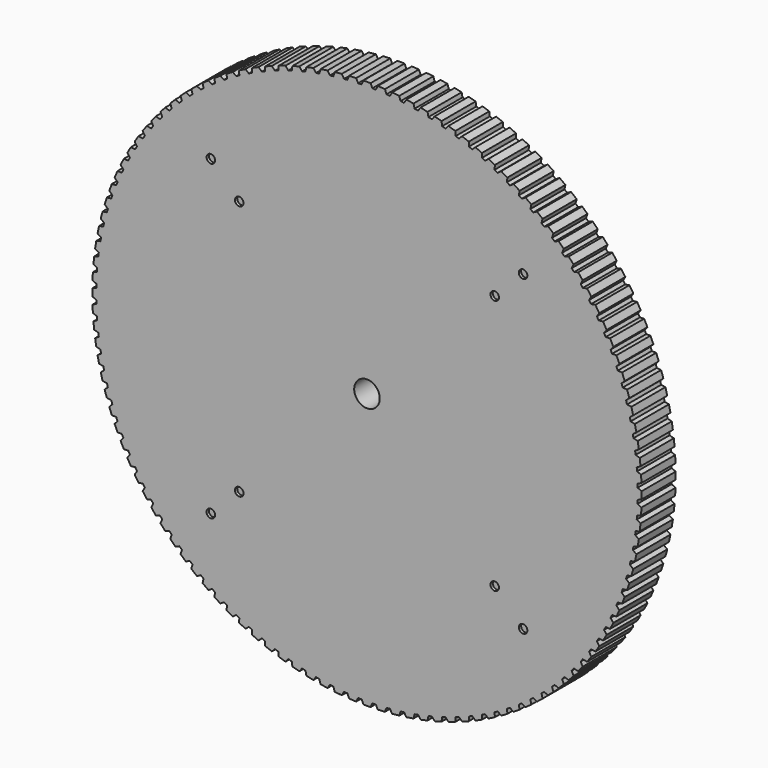
from build123d import *

# Parameters (mm, degrees)
F0_R     = 4.5
F1_DEPTH = 15
F2_R     = 1.5
F3_DEPTH = 1


with BuildPart() as f1:
    # F0 (on Front) → F1 (new body)
    with BuildSketch(Plane.XZ):
        with BuildLine():
            ThreePointArc((95.346471, -1.879804), (95.360368, -0.939948), (95.365, 0))
            ThreePointArc((95.365, 0), (95.360368, 0.939948), (95.346471, 1.879804))
            ThreePointArc((95.346471, 1.879804), (95.332321, 2.496365), (95.314183, 3.112821))
            ThreePointArc((95.314183, 3.112821), (95.234306, 4.991018), (95.117421, 6.867277))
            ThreePointArc((95.117421, 6.867277), (95.071022, 7.482252), (95.020646, 8.096914))
            ThreePointArc((95.020646, 8.096914), (94.842581, 9.968357), (94.62766, 11.835926))
            ThreePointArc((94.62766, 11.835926), (94.549139, 12.44763), (94.466664, 13.058814))
            ThreePointArc((94.466664, 13.058814), (94.190899, 14.918373), (93.878532, 16.772135))
            ThreePointArc((93.878532, 16.772135), (93.768104, 17.378891), (93.653755, 17.98492))
            ThreePointArc((93.653755, 17.98492), (93.281046, 19.827498), (92.872089, 21.662372))
            ThreePointArc((92.872089, 21.662372), (92.730057, 22.262517), (92.584148, 22.861731))
            ThreePointArc((92.584148, 22.861731), (92.115516, 24.682278), (91.61109, 26.493234))
            ThreePointArc((91.61109, 26.493234), (91.437844, 27.085123), (91.260774, 27.67588))
            ThreePointArc((91.260774, 27.67588), (90.697505, 29.469406), (90.098991, 31.25148))
            ThreePointArc((90.098991, 31.25148), (89.895006, 31.833491), (89.687261, 32.414171))
            ThreePointArc((89.687261, 32.414171), (89.030897, 34.17576), (88.339938, 35.924068))
            ThreePointArc((88.339938, 35.924068), (88.105772, 36.494606), (87.867921, 37.063617))
            ThreePointArc((87.867921, 37.063617), (87.120263, 38.78844), (86.33875, 40.49819))
            ThreePointArc((86.33875, 40.49819), (86.075046, 41.055691), (85.807741, 41.611474))
            ThreePointArc((85.807741, 41.611474), (84.970837, 43.294804), (84.100915, 44.96131))
            ThreePointArc((84.100915, 44.96131), (83.808394, 45.504245), (83.512368, 46.045278))
            ThreePointArc((83.512368, 46.045278), (82.588513, 47.6825), (81.632564, 49.301194))
            ThreePointArc((81.632564, 49.301194), (81.312029, 49.828076), (80.988094, 50.352874))
            ThreePointArc((80.988094, 50.352874), (79.979819, 51.939502), (78.940464, 53.505946))
            ThreePointArc((78.940464, 53.505946), (78.592794, 54.015331), (78.241837, 54.522456))
            ThreePointArc((78.241837, 54.522456), (77.151906, 56.054141), (76.031994, 57.564043))
            ThreePointArc((76.031994, 57.564043), (75.658141, 58.054534), (75.281124, 58.542596))
            ThreePointArc((75.281124, 58.542596), (74.112525, 60.015139), (72.915126, 61.464361))
            ThreePointArc((72.915126, 61.464361), (72.516115, 61.934613), (72.114071, 62.402275))
            ThreePointArc((72.114071, 62.402275), (70.870006, 63.81164), (69.598402, 65.196209))
            ThreePointArc((69.598402, 65.196209), (69.175327, 65.644934), (68.749358, 66.090914))
            ThreePointArc((68.749358, 66.090914), (67.433238, 67.433238), (66.090914, 68.749358))
            ThreePointArc((66.090914, 68.749358), (65.644934, 69.175327), (65.196209, 69.598402))
            ThreePointArc((65.196209, 69.598402), (63.81164, 70.870006), (62.402275, 72.114071))
            ThreePointArc((62.402275, 72.114071), (61.934613, 72.516115), (61.464361, 72.915126))
            ThreePointArc((61.464361, 72.915126), (60.015139, 74.112525), (58.542596, 75.281124))
            ThreePointArc((58.542596, 75.281124), (58.054534, 75.658141), (57.564043, 76.031994))
            ThreePointArc((57.564043, 76.031994), (56.054141, 77.151906), (54.522456, 78.241837))
            ThreePointArc((54.522456, 78.241837), (54.015331, 78.592794), (53.505946, 78.940464))
            ThreePointArc((53.505946, 78.940464), (51.939502, 79.979819), (50.352874, 80.988094))
            ThreePointArc((50.352874, 80.988094), (49.828076, 81.312029), (49.301194, 81.632564))
            ThreePointArc((49.301194, 81.632564), (47.6825, 82.588513), (46.045278, 83.512368))
            ThreePointArc((46.045278, 83.512368), (45.504245, 83.808394), (44.96131, 84.100915))
            ThreePointArc((44.96131, 84.100915), (43.294804, 84.970837), (41.611474, 85.807741))
            ThreePointArc((41.611474, 85.807741), (41.055691, 86.075046), (40.49819, 86.33875))
            ThreePointArc((40.49819, 86.33875), (38.78844, 87.120263), (37.063617, 87.867921))
            ThreePointArc((37.063617, 87.867921), (36.494606, 88.105772), (35.924068, 88.339938))
            ThreePointArc((35.924068, 88.339938), (34.17576, 89.030897), (32.414171, 89.687261))
            ThreePointArc((32.414171, 89.687261), (31.833491, 89.895006), (31.25148, 90.098991))
            ThreePointArc((31.25148, 90.098991), (29.469406, 90.697505), (27.67588, 91.260774))
            ThreePointArc((27.67588, 91.260774), (27.085123, 91.437844), (26.493234, 91.61109))
            ThreePointArc((26.493234, 91.61109), (24.682278, 92.115516), (22.861731, 92.584148))
            ThreePointArc((22.861731, 92.584148), (22.262517, 92.730057), (21.662372, 92.872089))
            ThreePointArc((21.662372, 92.872089), (19.827498, 93.281046), (17.98492, 93.653755))
            ThreePointArc((17.98492, 93.653755), (17.378891, 93.768104), (16.772135, 93.878532))
            ThreePointArc((16.772135, 93.878532), (14.918373, 94.190899), (13.058814, 94.466664))
            ThreePointArc((13.058814, 94.466664), (12.44763, 94.549139), (11.835926, 94.62766))
            ThreePointArc((11.835926, 94.62766), (9.968357, 94.842581), (8.096914, 95.020646))
            ThreePointArc((8.096914, 95.020646), (7.482252, 95.071022), (6.867277, 95.117421))
            ThreePointArc((6.867277, 95.117421), (4.991018, 95.234306), (3.112821, 95.314183))
            ThreePointArc((3.112821, 95.314183), (2.496365, 95.332321), (1.879804, 95.346471))
            ThreePointArc((1.879804, 95.346471), (0, 95.365), (-1.879804, 95.346471))
            ThreePointArc((-1.879804, 95.346471), (-2.496365, 95.332321), (-3.112821, 95.314183))
            ThreePointArc((-3.112821, 95.314183), (-4.991018, 95.234306), (-6.867277, 95.117421))
            ThreePointArc((-6.867277, 95.117421), (-7.482252, 95.071022), (-8.096914, 95.020646))
            ThreePointArc((-8.096914, 95.020646), (-9.968357, 94.842581), (-11.835926, 94.62766))
            ThreePointArc((-11.835926, 94.62766), (-12.44763, 94.549139), (-13.058814, 94.466664))
            ThreePointArc((-13.058814, 94.466664), (-14.918373, 94.190899), (-16.772135, 93.878532))
            ThreePointArc((-16.772135, 93.878532), (-17.378891, 93.768104), (-17.98492, 93.653755))
            ThreePointArc((-17.98492, 93.653755), (-19.827498, 93.281046), (-21.662372, 92.872089))
            ThreePointArc((-21.662372, 92.872089), (-22.262517, 92.730057), (-22.861731, 92.584148))
            ThreePointArc((-22.861731, 92.584148), (-24.682278, 92.115516), (-26.493234, 91.61109))
            ThreePointArc((-26.493234, 91.61109), (-27.085123, 91.437844), (-27.67588, 91.260774))
            ThreePointArc((-27.67588, 91.260774), (-29.469406, 90.697505), (-31.25148, 90.098991))
            ThreePointArc((-31.25148, 90.098991), (-31.833491, 89.895006), (-32.414171, 89.687261))
            ThreePointArc((-32.414171, 89.687261), (-34.17576, 89.030897), (-35.924068, 88.339938))
            ThreePointArc((-35.924068, 88.339938), (-36.494606, 88.105772), (-37.063617, 87.867921))
            ThreePointArc((-37.063617, 87.867921), (-38.78844, 87.120263), (-40.49819, 86.33875))
            ThreePointArc((-40.49819, 86.33875), (-41.055691, 86.075046), (-41.611474, 85.807741))
            ThreePointArc((-41.611474, 85.807741), (-43.294804, 84.970837), (-44.96131, 84.100915))
            ThreePointArc((-44.96131, 84.100915), (-45.504245, 83.808394), (-46.045278, 83.512368))
            ThreePointArc((-46.045278, 83.512368), (-47.6825, 82.588513), (-49.301194, 81.632564))
            ThreePointArc((-49.301194, 81.632564), (-49.828076, 81.312029), (-50.352874, 80.988094))
            ThreePointArc((-50.352874, 80.988094), (-51.939502, 79.979819), (-53.505946, 78.940464))
            ThreePointArc((-53.505946, 78.940464), (-54.015331, 78.592794), (-54.522456, 78.241837))
            ThreePointArc((-54.522456, 78.241837), (-56.054141, 77.151906), (-57.564043, 76.031994))
            ThreePointArc((-57.564043, 76.031994), (-58.054534, 75.658141), (-58.542596, 75.281124))
            ThreePointArc((-58.542596, 75.281124), (-60.015139, 74.112525), (-61.464361, 72.915126))
            ThreePointArc((-61.464361, 72.915126), (-61.934613, 72.516115), (-62.402275, 72.114071))
            ThreePointArc((-62.402275, 72.114071), (-63.81164, 70.870006), (-65.196209, 69.598402))
            ThreePointArc((-65.196209, 69.598402), (-65.644934, 69.175327), (-66.090914, 68.749358))
            ThreePointArc((-66.090914, 68.749358), (-67.433238, 67.433238), (-68.749358, 66.090914))
            ThreePointArc((-68.749358, 66.090914), (-69.175327, 65.644934), (-69.598402, 65.196209))
            ThreePointArc((-69.598402, 65.196209), (-70.870006, 63.81164), (-72.114071, 62.402275))
            ThreePointArc((-72.114071, 62.402275), (-72.516115, 61.934613), (-72.915126, 61.464361))
            ThreePointArc((-72.915126, 61.464361), (-74.112525, 60.015139), (-75.281124, 58.542596))
            ThreePointArc((-75.281124, 58.542596), (-75.658141, 58.054534), (-76.031994, 57.564043))
            ThreePointArc((-76.031994, 57.564043), (-77.151906, 56.054141), (-78.241837, 54.522456))
            ThreePointArc((-78.241837, 54.522456), (-78.592794, 54.015331), (-78.940464, 53.505946))
            ThreePointArc((-78.940464, 53.505946), (-79.979819, 51.939502), (-80.988094, 50.352874))
            ThreePointArc((-80.988094, 50.352874), (-81.312029, 49.828076), (-81.632564, 49.301194))
            ThreePointArc((-81.632564, 49.301194), (-82.588513, 47.6825), (-83.512368, 46.045278))
            ThreePointArc((-83.512368, 46.045278), (-83.808394, 45.504245), (-84.100915, 44.96131))
            ThreePointArc((-84.100915, 44.96131), (-84.970837, 43.294804), (-85.807741, 41.611474))
            ThreePointArc((-85.807741, 41.611474), (-86.075046, 41.055691), (-86.33875, 40.49819))
            ThreePointArc((-86.33875, 40.49819), (-87.120263, 38.78844), (-87.867921, 37.063617))
            ThreePointArc((-87.867921, 37.063617), (-88.105772, 36.494606), (-88.339938, 35.924068))
            ThreePointArc((-88.339938, 35.924068), (-89.030897, 34.17576), (-89.687261, 32.414171))
            ThreePointArc((-89.687261, 32.414171), (-89.895006, 31.833491), (-90.098991, 31.25148))
            ThreePointArc((-90.098991, 31.25148), (-90.697505, 29.469406), (-91.260774, 27.67588))
            ThreePointArc((-91.260774, 27.67588), (-91.437844, 27.085123), (-91.61109, 26.493234))
            ThreePointArc((-91.61109, 26.493234), (-92.115516, 24.682278), (-92.584148, 22.861731))
            ThreePointArc((-92.584148, 22.861731), (-92.730057, 22.262517), (-92.872089, 21.662372))
            ThreePointArc((-92.872089, 21.662372), (-93.281046, 19.827498), (-93.653755, 17.98492))
            ThreePointArc((-93.653755, 17.98492), (-93.768104, 17.378891), (-93.878532, 16.772135))
            ThreePointArc((-93.878532, 16.772135), (-94.190899, 14.918373), (-94.466664, 13.058814))
            ThreePointArc((-94.466664, 13.058814), (-94.549139, 12.44763), (-94.62766, 11.835926))
            ThreePointArc((-94.62766, 11.835926), (-94.842581, 9.968357), (-95.020646, 8.096914))
            ThreePointArc((-95.020646, 8.096914), (-95.071022, 7.482252), (-95.117421, 6.867277))
            ThreePointArc((-95.117421, 6.867277), (-95.234306, 4.991018), (-95.314183, 3.112821))
            ThreePointArc((-95.314183, 3.112821), (-95.332321, 2.496365), (-95.346471, 1.879804))
            ThreePointArc((-95.346471, 1.879804), (-95.365, 0), (-95.346471, -1.879804))
            ThreePointArc((-95.346471, -1.879804), (-95.332321, -2.496365), (-95.314183, -3.112821))
            ThreePointArc((-95.314183, -3.112821), (-95.234306, -4.991018), (-95.117421, -6.867277))
            ThreePointArc((-95.117421, -6.867277), (-95.071022, -7.482252), (-95.020646, -8.096914))
            ThreePointArc((-95.020646, -8.096914), (-94.842581, -9.968357), (-94.62766, -11.835926))
            ThreePointArc((-94.62766, -11.835926), (-94.549139, -12.44763), (-94.466664, -13.058814))
            ThreePointArc((-94.466664, -13.058814), (-94.190899, -14.918373), (-93.878532, -16.772135))
            ThreePointArc((-93.878532, -16.772135), (-93.768104, -17.378891), (-93.653755, -17.98492))
            ThreePointArc((-93.653755, -17.98492), (-93.281046, -19.827498), (-92.872089, -21.662372))
            ThreePointArc((-92.872089, -21.662372), (-92.730057, -22.262517), (-92.584148, -22.861731))
            ThreePointArc((-92.584148, -22.861731), (-92.115516, -24.682278), (-91.61109, -26.493234))
            ThreePointArc((-91.61109, -26.493234), (-91.437844, -27.085123), (-91.260774, -27.67588))
            ThreePointArc((-91.260774, -27.67588), (-90.697505, -29.469406), (-90.098991, -31.25148))
            ThreePointArc((-90.098991, -31.25148), (-89.895006, -31.833491), (-89.687261, -32.414171))
            ThreePointArc((-89.687261, -32.414171), (-89.030897, -34.17576), (-88.339938, -35.924068))
            ThreePointArc((-88.339938, -35.924068), (-88.105772, -36.494606), (-87.867921, -37.063617))
            ThreePointArc((-87.867921, -37.063617), (-87.120263, -38.78844), (-86.33875, -40.49819))
            ThreePointArc((-86.33875, -40.49819), (-86.075046, -41.055691), (-85.807741, -41.611474))
            ThreePointArc((-85.807741, -41.611474), (-84.970837, -43.294804), (-84.100915, -44.96131))
            ThreePointArc((-84.100915, -44.96131), (-83.808394, -45.504245), (-83.512368, -46.045278))
            ThreePointArc((-83.512368, -46.045278), (-82.588513, -47.6825), (-81.632564, -49.301194))
            ThreePointArc((-81.632564, -49.301194), (-81.312029, -49.828076), (-80.988094, -50.352874))
            ThreePointArc((-80.988094, -50.352874), (-79.979819, -51.939502), (-78.940464, -53.505946))
            ThreePointArc((-78.940464, -53.505946), (-78.592794, -54.015331), (-78.241837, -54.522456))
            ThreePointArc((-78.241837, -54.522456), (-77.151906, -56.054141), (-76.031994, -57.564043))
            ThreePointArc((-76.031994, -57.564043), (-75.658141, -58.054534), (-75.281124, -58.542596))
            ThreePointArc((-75.281124, -58.542596), (-74.112525, -60.015139), (-72.915126, -61.464361))
            ThreePointArc((-72.915126, -61.464361), (-72.516115, -61.934613), (-72.114071, -62.402275))
            ThreePointArc((-72.114071, -62.402275), (-70.870006, -63.81164), (-69.598402, -65.196209))
            ThreePointArc((-69.598402, -65.196209), (-69.175327, -65.644934), (-68.749358, -66.090914))
            ThreePointArc((-68.749358, -66.090914), (-67.433238, -67.433238), (-66.090914, -68.749358))
            ThreePointArc((-66.090914, -68.749358), (-65.644934, -69.175327), (-65.196209, -69.598402))
            ThreePointArc((-65.196209, -69.598402), (-63.81164, -70.870006), (-62.402275, -72.114071))
            ThreePointArc((-62.402275, -72.114071), (-61.934613, -72.516115), (-61.464361, -72.915126))
            ThreePointArc((-61.464361, -72.915126), (-60.015139, -74.112525), (-58.542596, -75.281124))
            ThreePointArc((-58.542596, -75.281124), (-58.054534, -75.658141), (-57.564043, -76.031994))
            ThreePointArc((-57.564043, -76.031994), (-56.054141, -77.151906), (-54.522456, -78.241837))
            ThreePointArc((-54.522456, -78.241837), (-54.015331, -78.592794), (-53.505946, -78.940464))
            ThreePointArc((-53.505946, -78.940464), (-51.939502, -79.979819), (-50.352874, -80.988094))
            ThreePointArc((-50.352874, -80.988094), (-49.828076, -81.312029), (-49.301194, -81.632564))
            ThreePointArc((-49.301194, -81.632564), (-47.6825, -82.588513), (-46.045278, -83.512368))
            ThreePointArc((-46.045278, -83.512368), (-45.504245, -83.808394), (-44.96131, -84.100915))
            ThreePointArc((-44.96131, -84.100915), (-43.294804, -84.970837), (-41.611474, -85.807741))
            ThreePointArc((-41.611474, -85.807741), (-41.055691, -86.075046), (-40.49819, -86.33875))
            ThreePointArc((-40.49819, -86.33875), (-38.78844, -87.120263), (-37.063617, -87.867921))
            ThreePointArc((-37.063617, -87.867921), (-36.494606, -88.105772), (-35.924068, -88.339938))
            ThreePointArc((-35.924068, -88.339938), (-34.17576, -89.030897), (-32.414171, -89.687261))
            ThreePointArc((-32.414171, -89.687261), (-31.833491, -89.895006), (-31.25148, -90.098991))
            ThreePointArc((-31.25148, -90.098991), (-29.469406, -90.697505), (-27.67588, -91.260774))
            ThreePointArc((-27.67588, -91.260774), (-27.085123, -91.437844), (-26.493234, -91.61109))
            ThreePointArc((-26.493234, -91.61109), (-24.682278, -92.115516), (-22.861731, -92.584148))
            ThreePointArc((-22.861731, -92.584148), (-22.262517, -92.730057), (-21.662372, -92.872089))
            ThreePointArc((-21.662372, -92.872089), (-19.827498, -93.281046), (-17.98492, -93.653755))
            ThreePointArc((-17.98492, -93.653755), (-17.378891, -93.768104), (-16.772135, -93.878532))
            ThreePointArc((-16.772135, -93.878532), (-14.918373, -94.190899), (-13.058814, -94.466664))
            ThreePointArc((-13.058814, -94.466664), (-12.44763, -94.549139), (-11.835926, -94.62766))
            ThreePointArc((-11.835926, -94.62766), (-9.968357, -94.842581), (-8.096914, -95.020646))
            ThreePointArc((-8.096914, -95.020646), (-7.482252, -95.071022), (-6.867277, -95.117421))
            ThreePointArc((-6.867277, -95.117421), (-4.991018, -95.234306), (-3.112821, -95.314183))
            ThreePointArc((-3.112821, -95.314183), (-2.496365, -95.332321), (-1.879804, -95.346471))
            ThreePointArc((-1.879804, -95.346471), (0, -95.365), (1.879804, -95.346471))
            ThreePointArc((1.879804, -95.346471), (2.496365, -95.332321), (3.112821, -95.314183))
            ThreePointArc((3.112821, -95.314183), (4.991018, -95.234306), (6.867277, -95.117421))
            ThreePointArc((6.867277, -95.117421), (7.482252, -95.071022), (8.096914, -95.020646))
            ThreePointArc((8.096914, -95.020646), (9.968357, -94.842581), (11.835926, -94.62766))
            ThreePointArc((11.835926, -94.62766), (12.44763, -94.549139), (13.058814, -94.466664))
            ThreePointArc((13.058814, -94.466664), (14.918373, -94.190899), (16.772135, -93.878532))
            ThreePointArc((16.772135, -93.878532), (17.378891, -93.768104), (17.98492, -93.653755))
            ThreePointArc((17.98492, -93.653755), (19.827498, -93.281046), (21.662372, -92.872089))
            ThreePointArc((21.662372, -92.872089), (22.262517, -92.730057), (22.861731, -92.584148))
            ThreePointArc((22.861731, -92.584148), (24.682278, -92.115516), (26.493234, -91.61109))
            ThreePointArc((26.493234, -91.61109), (27.085123, -91.437844), (27.67588, -91.260774))
            ThreePointArc((27.67588, -91.260774), (29.469406, -90.697505), (31.25148, -90.098991))
            ThreePointArc((31.25148, -90.098991), (31.833491, -89.895006), (32.414171, -89.687261))
            ThreePointArc((32.414171, -89.687261), (34.17576, -89.030897), (35.924068, -88.339938))
            ThreePointArc((35.924068, -88.339938), (36.494606, -88.105772), (37.063617, -87.867921))
            ThreePointArc((37.063617, -87.867921), (38.78844, -87.120263), (40.49819, -86.33875))
            ThreePointArc((40.49819, -86.33875), (41.055691, -86.075046), (41.611474, -85.807741))
            ThreePointArc((41.611474, -85.807741), (43.294804, -84.970837), (44.96131, -84.100915))
            ThreePointArc((44.96131, -84.100915), (45.504245, -83.808394), (46.045278, -83.512368))
            ThreePointArc((46.045278, -83.512368), (47.6825, -82.588513), (49.301194, -81.632564))
            ThreePointArc((49.301194, -81.632564), (49.828076, -81.312029), (50.352874, -80.988094))
            ThreePointArc((50.352874, -80.988094), (51.939502, -79.979819), (53.505946, -78.940464))
            ThreePointArc((53.505946, -78.940464), (54.015331, -78.592794), (54.522456, -78.241837))
            ThreePointArc((54.522456, -78.241837), (56.054141, -77.151906), (57.564043, -76.031994))
            ThreePointArc((57.564043, -76.031994), (58.054534, -75.658141), (58.542596, -75.281124))
            ThreePointArc((58.542596, -75.281124), (60.015139, -74.112525), (61.464361, -72.915126))
            ThreePointArc((61.464361, -72.915126), (61.934613, -72.516115), (62.402275, -72.114071))
            ThreePointArc((62.402275, -72.114071), (63.81164, -70.870006), (65.196209, -69.598402))
            ThreePointArc((65.196209, -69.598402), (65.644934, -69.175327), (66.090914, -68.749358))
            ThreePointArc((66.090914, -68.749358), (67.433238, -67.433238), (68.749358, -66.090914))
            ThreePointArc((68.749358, -66.090914), (69.175327, -65.644934), (69.598402, -65.196209))
            ThreePointArc((69.598402, -65.196209), (70.870006, -63.81164), (72.114071, -62.402275))
            ThreePointArc((72.114071, -62.402275), (72.516115, -61.934613), (72.915126, -61.464361))
            ThreePointArc((72.915126, -61.464361), (74.112525, -60.015139), (75.281124, -58.542596))
            ThreePointArc((75.281124, -58.542596), (75.658141, -58.054534), (76.031994, -57.564043))
            ThreePointArc((76.031994, -57.564043), (77.151906, -56.054141), (78.241837, -54.522456))
            ThreePointArc((78.241837, -54.522456), (78.592794, -54.015331), (78.940464, -53.505946))
            ThreePointArc((78.940464, -53.505946), (79.979819, -51.939502), (80.988094, -50.352874))
            ThreePointArc((80.988094, -50.352874), (81.312029, -49.828076), (81.632564, -49.301194))
            ThreePointArc((81.632564, -49.301194), (82.588513, -47.6825), (83.512368, -46.045278))
            ThreePointArc((83.512368, -46.045278), (83.808394, -45.504245), (84.100915, -44.96131))
            ThreePointArc((84.100915, -44.96131), (84.970837, -43.294804), (85.807741, -41.611474))
            ThreePointArc((85.807741, -41.611474), (86.075046, -41.055691), (86.33875, -40.49819))
            ThreePointArc((86.33875, -40.49819), (87.120263, -38.78844), (87.867921, -37.063617))
            ThreePointArc((87.867921, -37.063617), (88.105772, -36.494606), (88.339938, -35.924068))
            ThreePointArc((88.339938, -35.924068), (89.030897, -34.17576), (89.687261, -32.414171))
            ThreePointArc((89.687261, -32.414171), (89.895006, -31.833491), (90.098991, -31.25148))
            ThreePointArc((90.098991, -31.25148), (90.697505, -29.469406), (91.260774, -27.67588))
            ThreePointArc((91.260774, -27.67588), (91.437844, -27.085123), (91.61109, -26.493234))
            ThreePointArc((91.61109, -26.493234), (92.115516, -24.682278), (92.584148, -22.861731))
            ThreePointArc((92.584148, -22.861731), (92.730057, -22.262517), (92.872089, -21.662372))
            ThreePointArc((92.872089, -21.662372), (93.281046, -19.827498), (93.653755, -17.98492))
            ThreePointArc((93.653755, -17.98492), (93.768104, -17.378891), (93.878532, -16.772135))
            ThreePointArc((93.878532, -16.772135), (94.190899, -14.918373), (94.466664, -13.058814))
            ThreePointArc((94.466664, -13.058814), (94.549139, -12.44763), (94.62766, -11.835926))
            ThreePointArc((94.62766, -11.835926), (94.842581, -9.968357), (95.020646, -8.096914))
            ThreePointArc((95.020646, -8.096914), (95.071022, -7.482252), (95.117421, -6.867277))
            ThreePointArc((95.117421, -6.867277), (95.234306, -4.991018), (95.314183, -3.112821))
            ThreePointArc((95.314183, -3.112821), (95.332321, -2.496365), (95.346471, -1.879804))
        make_face()
        Circle(F0_R, mode=Mode.SUBTRACT)
        with BuildLine():
            ThreePointArc((95.346471, 1.879804), (95.360368, 0.939948), (95.365, 0))
            ThreePointArc((95.365, 0), (95.360368, -0.939948), (95.346471, -1.879804))
            Line((95.346471, -1.879804), (96.75671, -1.266615))
            Line((96.75671, -1.266615), (96.75671, 1.266615))
            Line((96.75671, 1.266615), (95.346471, 1.879804))
        make_face()
        with BuildLine():
            ThreePointArc((95.117421, 6.867277), (95.234306, 4.991018), (95.314183, 3.112821))
            Line((95.314183, 3.112821), (96.690398, 3.798976))
            Line((96.690398, 3.798976), (96.557819, 6.328734))
            Line((96.557819, 6.328734), (95.117421, 6.867277))
        make_face()
        with BuildLine():
            Line((96.690398, -3.798976), (95.314183, -3.112821))
            ThreePointArc((95.314183, -3.112821), (95.234306, -4.991018), (95.117421, -6.867277))
            Line((95.117421, -6.867277), (96.557819, -6.328734))
            Line((96.557819, -6.328734), (96.690398, -3.798976))
        make_face()
        with BuildLine():
            ThreePointArc((94.62766, 11.835926), (94.842581, 9.968357), (95.020646, 8.096914))
            Line((95.020646, 8.096914), (96.359064, 8.854154))
            Line((96.359064, 8.854154), (96.094269, 11.373506))
            Line((96.094269, 11.373506), (94.62766, 11.835926))
        make_face()
        with BuildLine():
            Line((96.359064, -8.854154), (95.020646, -8.096914))
            ThreePointArc((95.020646, -8.096914), (94.842581, -9.968357), (94.62766, -11.835926))
            Line((94.62766, -11.835926), (96.094269, -11.373506))
            Line((96.094269, -11.373506), (96.359064, -8.854154))
        make_face()
        with BuildLine():
            ThreePointArc((93.878532, 16.772135), (94.190899, 14.918373), (94.466664, 13.058814))
            Line((94.466664, 13.058814), (95.763616, 13.885064))
            Line((95.763616, 13.885064), (95.367332, 16.387105))
            Line((95.367332, 16.387105), (93.878532, 16.772135))
        make_face()
        with BuildLine():
            Line((95.763616, -13.885064), (94.466664, -13.058814))
            ThreePointArc((94.466664, -13.058814), (94.190899, -14.918373), (93.878532, -16.772135))
            Line((93.878532, -16.772135), (95.367332, -16.387105))
            Line((95.367332, -16.387105), (95.763616, -13.885064))
        make_face()
        with BuildLine():
            ThreePointArc((92.872089, 21.662372), (93.281046, 19.827498), (93.653755, 17.98492))
            Line((93.653755, 17.98492), (94.905688, 18.877915))
            Line((94.905688, 18.877915), (94.379, 21.355787))
            Line((94.379, 21.355787), (92.872089, 21.662372))
        make_face()
        with BuildLine():
            Line((94.905688, -18.877915), (93.653755, -17.98492))
            ThreePointArc((93.653755, -17.98492), (93.281046, -19.827498), (92.872089, -21.662372))
            Line((92.872089, -21.662372), (94.379, -21.355787))
            Line((94.379, -21.355787), (94.905688, -18.877915))
        make_face()
        with BuildLine():
            ThreePointArc((91.61109, 26.493234), (92.115516, 24.682278), (92.584148, 22.861731))
            Line((92.584148, 22.861731), (93.787629, 23.819023))
            Line((93.787629, 23.819023), (93.131981, 26.265935))
            Line((93.131981, 26.265935), (91.61109, 26.493234))
        make_face()
        with BuildLine():
            Line((93.787629, -23.819023), (92.584148, -22.861731))
            ThreePointArc((92.584148, -22.861731), (92.115516, -24.682278), (91.61109, -26.493234))
            Line((91.61109, -26.493234), (93.131981, -26.265935))
            Line((93.131981, -26.265935), (93.787629, -23.819023))
        make_face()
        with BuildLine():
            ThreePointArc((90.098991, 31.25148), (90.697505, 29.469406), (91.260774, 27.67588))
            Line((91.260774, 27.67588), (92.412505, 28.694846))
            Line((92.412505, 28.694846), (91.629694, 31.10409))
            Line((91.629694, 31.10409), (90.098991, 31.25148))
        make_face()
        with BuildLine():
            Line((92.412505, -28.694846), (91.260774, -27.67588))
            ThreePointArc((91.260774, -27.67588), (90.697505, -29.469406), (90.098991, -31.25148))
            Line((90.098991, -31.25148), (91.629694, -31.10409))
            Line((91.629694, -31.10409), (92.412505, -28.694846))
        make_face()
        with BuildLine():
            ThreePointArc((88.339938, 35.924068), (89.030897, 34.17576), (89.687261, 32.414171))
            Line((89.687261, 32.414171), (90.784085, 33.492017))
            Line((90.784085, 33.492017), (89.876256, 35.85699))
            Line((89.876256, 35.85699), (88.339938, 35.924068))
        make_face()
        with BuildLine():
            Line((90.784085, -33.492017), (89.687261, -32.414171))
            ThreePointArc((89.687261, -32.414171), (89.030897, -34.17576), (88.339938, -35.924068))
            Line((88.339938, -35.924068), (89.876256, -35.85699))
            Line((89.876256, -35.85699), (90.784085, -33.492017))
        make_face()
        with BuildLine():
            ThreePointArc((86.33875, 40.49819), (87.120263, 38.78844), (87.867921, 37.063617))
            Line((87.867921, 37.063617), (88.906831, 38.197389))
            Line((88.906831, 38.197389), (87.876474, 40.51161))
            Line((87.876474, 40.51161), (86.33875, 40.49819))
        make_face()
        with BuildLine():
            Line((88.906831, -38.197389), (87.867921, -37.063617))
            ThreePointArc((87.867921, -37.063617), (87.120263, -38.78844), (86.33875, -40.49819))
            Line((86.33875, -40.49819), (87.876474, -40.51161))
            Line((87.876474, -40.51161), (88.906831, -38.197389))
        make_face()
        with BuildLine():
            ThreePointArc((84.100915, 44.96131), (84.970837, 43.294804), (85.807741, 41.611474))
            Line((85.807741, 41.611474), (86.785891, 42.798065))
            Line((86.785891, 42.798065), (85.635829, 45.055189))
            Line((85.635829, 45.055189), (84.100915, 44.96131))
        make_face()
        with BuildLine():
            Line((86.785891, -42.798065), (85.807741, -41.611474))
            ThreePointArc((85.807741, -41.611474), (84.970837, -43.294804), (84.100915, -44.96131))
            Line((84.100915, -44.96131), (85.635829, -45.055189))
            Line((85.635829, -45.055189), (86.785891, -42.798065))
        make_face()
        with BuildLine():
            ThreePointArc((81.632564, 49.301194), (82.588513, 47.6825), (83.512368, 46.045278))
            Line((83.512368, 46.045278), (84.427076, 47.281434))
            Line((84.427076, 47.281434), (83.160461, 49.475275))
            Line((83.160461, 49.475275), (81.632564, 49.301194))
        make_face()
        with BuildLine():
            Line((84.427076, -47.281434), (83.512368, -46.045278))
            ThreePointArc((83.512368, -46.045278), (82.588513, -47.6825), (81.632564, -49.301194))
            Line((81.632564, -49.301194), (83.160461, -49.475275))
            Line((83.160461, -49.475275), (84.427076, -47.281434))
        make_face()
        with BuildLine():
            ThreePointArc((78.940464, 53.505946), (79.979819, 51.939502), (80.988094, 50.352874))
            Line((80.988094, 50.352874), (81.836853, 51.635209))
            Line((81.836853, 51.635209), (80.457157, 53.759754))
            Line((80.457157, 53.759754), (78.940464, 53.505946))
        make_face()
        with BuildLine():
            Line((81.836853, -51.635209), (80.988094, -50.352874))
            ThreePointArc((80.988094, -50.352874), (79.979819, -51.939502), (78.940464, -53.505946))
            Line((78.940464, -53.505946), (80.457157, -53.759754))
            Line((80.457157, -53.759754), (81.836853, -51.635209))
        make_face()
        with BuildLine():
            ThreePointArc((76.031994, 57.564043), (77.151906, 56.054141), (78.241837, 54.522456))
            Line((78.241837, 54.522456), (79.02232, 55.847454))
            Line((79.02232, 55.847454), (77.533325, 57.89688))
            Line((77.533325, 57.89688), (76.031994, 57.564043))
        make_face()
        with BuildLine():
            Line((79.02232, -55.847454), (78.241837, -54.522456))
            ThreePointArc((78.241837, -54.522456), (77.151906, -56.054141), (76.031994, -57.564043))
            Line((76.031994, -57.564043), (77.533325, -57.89688))
            Line((77.533325, -57.89688), (79.02232, -55.847454))
        make_face()
        with BuildLine():
            ThreePointArc((72.915126, 61.464361), (74.112525, 60.015139), (75.281124, 58.542596))
            Line((75.281124, 58.542596), (75.991193, 59.906626))
            Line((75.991193, 59.906626), (74.39698, 61.875315))
            Line((74.39698, 61.875315), (72.915126, 61.464361))
        make_face()
        with BuildLine():
            Line((75.991193, -59.906626), (75.281124, -58.542596))
            ThreePointArc((75.281124, -58.542596), (74.112525, -60.015139), (72.915126, -61.464361))
            Line((72.915126, -61.464361), (74.39698, -61.875315))
            Line((74.39698, -61.875315), (75.991193, -59.906626))
        make_face()
        with BuildLine():
            ThreePointArc((69.598402, 65.196209), (70.870006, 63.81164), (72.114071, 62.402275))
            Line((72.114071, 62.402275), (72.751779, 63.801598))
            Line((72.751779, 63.801598), (71.056718, 65.684154))
            Line((71.056718, 65.684154), (69.598402, 65.196209))
        make_face()
        with BuildLine():
            Line((72.751779, -63.801598), (72.114071, -62.402275))
            ThreePointArc((72.114071, -62.402275), (70.870006, -63.81164), (69.598402, -65.196209))
            Line((69.598402, -65.196209), (71.056718, -65.684154))
            Line((71.056718, -65.684154), (72.751779, -63.801598))
        make_face()
        with BuildLine():
            ThreePointArc((66.090914, 68.749358), (67.433238, 67.433238), (68.749358, 66.090914))
            Line((68.749358, 66.090914), (69.312958, 67.521694))
            Line((69.312958, 67.521694), (67.521694, 69.312958))
            Line((67.521694, 69.312958), (66.090914, 68.749358))
        make_face()
        with BuildLine():
            Line((69.312958, -67.521694), (68.749358, -66.090914))
            ThreePointArc((68.749358, -66.090914), (67.433238, -67.433238), (66.090914, -68.749358))
            Line((66.090914, -68.749358), (67.521694, -69.312958))
            Line((67.521694, -69.312958), (69.312958, -67.521694))
        make_face()
        with BuildLine():
            ThreePointArc((62.402275, 72.114071), (63.81164, 70.870006), (65.196209, 69.598402))
            Line((65.196209, 69.598402), (65.684154, 71.056718))
            Line((65.684154, 71.056718), (63.801598, 72.751779))
            Line((63.801598, 72.751779), (62.402275, 72.114071))
        make_face()
        with BuildLine():
            Line((65.684154, -71.056718), (65.196209, -69.598402))
            ThreePointArc((65.196209, -69.598402), (63.81164, -70.870006), (62.402275, -72.114071))
            Line((62.402275, -72.114071), (63.801598, -72.751779))
            Line((63.801598, -72.751779), (65.684154, -71.056718))
        make_face()
        with BuildLine():
            ThreePointArc((58.542596, 75.281124), (60.015139, 74.112525), (61.464361, 72.915126))
            Line((61.464361, 72.915126), (61.875315, 74.39698))
            Line((61.875315, 74.39698), (59.906626, 75.991193))
            Line((59.906626, 75.991193), (58.542596, 75.281124))
        make_face()
        with BuildLine():
            Line((61.875315, -74.39698), (61.464361, -72.915126))
            ThreePointArc((61.464361, -72.915126), (60.015139, -74.112525), (58.542596, -75.281124))
            Line((58.542596, -75.281124), (59.906626, -75.991193))
            Line((59.906626, -75.991193), (61.875315, -74.39698))
        make_face()
        with BuildLine():
            ThreePointArc((54.522456, 78.241837), (56.054141, 77.151906), (57.564043, 76.031994))
            Line((57.564043, 76.031994), (57.89688, 77.533325))
            Line((57.89688, 77.533325), (55.847454, 79.02232))
            Line((55.847454, 79.02232), (54.522456, 78.241837))
        make_face()
        with BuildLine():
            Line((57.89688, -77.533325), (57.564043, -76.031994))
            ThreePointArc((57.564043, -76.031994), (56.054141, -77.151906), (54.522456, -78.241837))
            Line((54.522456, -78.241837), (55.847454, -79.02232))
            Line((55.847454, -79.02232), (57.89688, -77.533325))
        make_face()
        with BuildLine():
            ThreePointArc((50.352874, 80.988094), (51.939502, 79.979819), (53.505946, 78.940464))
            Line((53.505946, 78.940464), (53.759754, 80.457157))
            Line((53.759754, 80.457157), (51.635209, 81.836853))
            Line((51.635209, 81.836853), (50.352874, 80.988094))
        make_face()
        with BuildLine():
            Line((53.759754, -80.457157), (53.505946, -78.940464))
            ThreePointArc((53.505946, -78.940464), (51.939502, -79.979819), (50.352874, -80.988094))
            Line((50.352874, -80.988094), (51.635209, -81.836853))
            Line((51.635209, -81.836853), (53.759754, -80.457157))
        make_face()
        with BuildLine():
            ThreePointArc((46.045278, 83.512368), (47.6825, 82.588513), (49.301194, 81.632564))
            Line((49.301194, 81.632564), (49.475275, 83.160461))
            Line((49.475275, 83.160461), (47.281434, 84.427076))
            Line((47.281434, 84.427076), (46.045278, 83.512368))
        make_face()
        with BuildLine():
            Line((49.475275, -83.160461), (49.301194, -81.632564))
            ThreePointArc((49.301194, -81.632564), (47.6825, -82.588513), (46.045278, -83.512368))
            Line((46.045278, -83.512368), (47.281434, -84.427076))
            Line((47.281434, -84.427076), (49.475275, -83.160461))
        make_face()
        with BuildLine():
            ThreePointArc((41.611474, 85.807741), (43.294804, 84.970837), (44.96131, 84.100915))
            Line((44.96131, 84.100915), (45.055189, 85.635829))
            Line((45.055189, 85.635829), (42.798065, 86.785891))
            Line((42.798065, 86.785891), (41.611474, 85.807741))
        make_face()
        with BuildLine():
            Line((45.055189, -85.635829), (44.96131, -84.100915))
            ThreePointArc((44.96131, -84.100915), (43.294804, -84.970837), (41.611474, -85.807741))
            Line((41.611474, -85.807741), (42.798065, -86.785891))
            Line((42.798065, -86.785891), (45.055189, -85.635829))
        make_face()
        with BuildLine():
            ThreePointArc((37.063617, 87.867921), (38.78844, 87.120263), (40.49819, 86.33875))
            Line((40.49819, 86.33875), (40.51161, 87.876474))
            Line((40.51161, 87.876474), (38.197389, 88.906831))
            Line((38.197389, 88.906831), (37.063617, 87.867921))
        make_face()
        with BuildLine():
            Line((40.51161, -87.876474), (40.49819, -86.33875))
            ThreePointArc((40.49819, -86.33875), (38.78844, -87.120263), (37.063617, -87.867921))
            Line((37.063617, -87.867921), (38.197389, -88.906831))
            Line((38.197389, -88.906831), (40.51161, -87.876474))
        make_face()
        with BuildLine():
            ThreePointArc((32.414171, 89.687261), (34.17576, 89.030897), (35.924068, 88.339938))
            Line((35.924068, 88.339938), (35.85699, 89.876256))
            Line((35.85699, 89.876256), (33.492017, 90.784085))
            Line((33.492017, 90.784085), (32.414171, 89.687261))
        make_face()
        with BuildLine():
            Line((35.85699, -89.876256), (35.924068, -88.339938))
            ThreePointArc((35.924068, -88.339938), (34.17576, -89.030897), (32.414171, -89.687261))
            Line((32.414171, -89.687261), (33.492017, -90.784085))
            Line((33.492017, -90.784085), (35.85699, -89.876256))
        make_face()
        with BuildLine():
            ThreePointArc((27.67588, 91.260774), (29.469406, 90.697505), (31.25148, 90.098991))
            Line((31.25148, 90.098991), (31.10409, 91.629694))
            Line((31.10409, 91.629694), (28.694846, 92.412505))
            Line((28.694846, 92.412505), (27.67588, 91.260774))
        make_face()
        with BuildLine():
            Line((31.10409, -91.629694), (31.25148, -90.098991))
            ThreePointArc((31.25148, -90.098991), (29.469406, -90.697505), (27.67588, -91.260774))
            Line((27.67588, -91.260774), (28.694846, -92.412505))
            Line((28.694846, -92.412505), (31.10409, -91.629694))
        make_face()
        with BuildLine():
            ThreePointArc((22.861731, 92.584148), (24.682278, 92.115516), (26.493234, 91.61109))
            Line((26.493234, 91.61109), (26.265935, 93.131981))
            Line((26.265935, 93.131981), (23.819023, 93.787629))
            Line((23.819023, 93.787629), (22.861731, 92.584148))
        make_face()
        with BuildLine():
            Line((26.265935, -93.131981), (26.493234, -91.61109))
            ThreePointArc((26.493234, -91.61109), (24.682278, -92.115516), (22.861731, -92.584148))
            Line((22.861731, -92.584148), (23.819023, -93.787629))
            Line((23.819023, -93.787629), (26.265935, -93.131981))
        make_face()
        with BuildLine():
            ThreePointArc((17.98492, 93.653755), (19.827498, 93.281046), (21.662372, 92.872089))
            Line((21.662372, 92.872089), (21.355787, 94.379))
            Line((21.355787, 94.379), (18.877915, 94.905688))
            Line((18.877915, 94.905688), (17.98492, 93.653755))
        make_face()
        with BuildLine():
            Line((21.355787, -94.379), (21.662372, -92.872089))
            ThreePointArc((21.662372, -92.872089), (19.827498, -93.281046), (17.98492, -93.653755))
            Line((17.98492, -93.653755), (18.877915, -94.905688))
            Line((18.877915, -94.905688), (21.355787, -94.379))
        make_face()
        with BuildLine():
            ThreePointArc((13.058814, 94.466664), (14.918373, 94.190899), (16.772135, 93.878532))
            Line((16.772135, 93.878532), (16.387105, 95.367332))
            Line((16.387105, 95.367332), (13.885064, 95.763616))
            Line((13.885064, 95.763616), (13.058814, 94.466664))
        make_face()
        with BuildLine():
            Line((16.387105, -95.367332), (16.772135, -93.878532))
            ThreePointArc((16.772135, -93.878532), (14.918373, -94.190899), (13.058814, -94.466664))
            Line((13.058814, -94.466664), (13.885064, -95.763616))
            Line((13.885064, -95.763616), (16.387105, -95.367332))
        make_face()
        with BuildLine():
            ThreePointArc((8.096914, 95.020646), (9.968357, 94.842581), (11.835926, 94.62766))
            Line((11.835926, 94.62766), (11.373506, 96.094269))
            Line((11.373506, 96.094269), (8.854154, 96.359064))
            Line((8.854154, 96.359064), (8.096914, 95.020646))
        make_face()
        with BuildLine():
            Line((11.373506, -96.094269), (11.835926, -94.62766))
            ThreePointArc((11.835926, -94.62766), (9.968357, -94.842581), (8.096914, -95.020646))
            Line((8.096914, -95.020646), (8.854154, -96.359064))
            Line((8.854154, -96.359064), (11.373506, -96.094269))
        make_face()
        with BuildLine():
            ThreePointArc((3.112821, 95.314183), (4.991018, 95.234306), (6.867277, 95.117421))
            Line((6.867277, 95.117421), (6.328734, 96.557819))
            Line((6.328734, 96.557819), (3.798976, 96.690398))
            Line((3.798976, 96.690398), (3.112821, 95.314183))
        make_face()
        with BuildLine():
            Line((6.328734, -96.557819), (6.867277, -95.117421))
            ThreePointArc((6.867277, -95.117421), (4.991018, -95.234306), (3.112821, -95.314183))
            Line((3.112821, -95.314183), (3.798976, -96.690398))
            Line((3.798976, -96.690398), (6.328734, -96.557819))
        make_face()
        with BuildLine():
            ThreePointArc((-1.879804, 95.346471), (0, 95.365), (1.879804, 95.346471))
            Line((1.879804, 95.346471), (1.266615, 96.75671))
            Line((1.266615, 96.75671), (-1.266615, 96.75671))
            Line((-1.266615, 96.75671), (-1.879804, 95.346471))
        make_face()
        with BuildLine():
            Line((1.266615, -96.75671), (1.879804, -95.346471))
            ThreePointArc((1.879804, -95.346471), (0, -95.365), (-1.879804, -95.346471))
            Line((-1.879804, -95.346471), (-1.266615, -96.75671))
            Line((-1.266615, -96.75671), (1.266615, -96.75671))
        make_face()
        with BuildLine():
            ThreePointArc((-6.867277, 95.117421), (-4.991018, 95.234306), (-3.112821, 95.314183))
            Line((-3.112821, 95.314183), (-3.798976, 96.690398))
            Line((-3.798976, 96.690398), (-6.328734, 96.557819))
            Line((-6.328734, 96.557819), (-6.867277, 95.117421))
        make_face()
        with BuildLine():
            Line((-3.798976, -96.690398), (-3.112821, -95.314183))
            ThreePointArc((-3.112821, -95.314183), (-4.991018, -95.234306), (-6.867277, -95.117421))
            Line((-6.867277, -95.117421), (-6.328734, -96.557819))
            Line((-6.328734, -96.557819), (-3.798976, -96.690398))
        make_face()
        with BuildLine():
            ThreePointArc((-11.835926, 94.62766), (-9.968357, 94.842581), (-8.096914, 95.020646))
            Line((-8.096914, 95.020646), (-8.854154, 96.359064))
            Line((-8.854154, 96.359064), (-11.373506, 96.094269))
            Line((-11.373506, 96.094269), (-11.835926, 94.62766))
        make_face()
        with BuildLine():
            Line((-8.854154, -96.359064), (-8.096914, -95.020646))
            ThreePointArc((-8.096914, -95.020646), (-9.968357, -94.842581), (-11.835926, -94.62766))
            Line((-11.835926, -94.62766), (-11.373506, -96.094269))
            Line((-11.373506, -96.094269), (-8.854154, -96.359064))
        make_face()
        with BuildLine():
            ThreePointArc((-16.772135, 93.878532), (-14.918373, 94.190899), (-13.058814, 94.466664))
            Line((-13.058814, 94.466664), (-13.885064, 95.763616))
            Line((-13.885064, 95.763616), (-16.387105, 95.367332))
            Line((-16.387105, 95.367332), (-16.772135, 93.878532))
        make_face()
        with BuildLine():
            Line((-13.885064, -95.763616), (-13.058814, -94.466664))
            ThreePointArc((-13.058814, -94.466664), (-14.918373, -94.190899), (-16.772135, -93.878532))
            Line((-16.772135, -93.878532), (-16.387105, -95.367332))
            Line((-16.387105, -95.367332), (-13.885064, -95.763616))
        make_face()
        with BuildLine():
            ThreePointArc((-21.662372, 92.872089), (-19.827498, 93.281046), (-17.98492, 93.653755))
            Line((-17.98492, 93.653755), (-18.877915, 94.905688))
            Line((-18.877915, 94.905688), (-21.355787, 94.379))
            Line((-21.355787, 94.379), (-21.662372, 92.872089))
        make_face()
        with BuildLine():
            Line((-18.877915, -94.905688), (-17.98492, -93.653755))
            ThreePointArc((-17.98492, -93.653755), (-19.827498, -93.281046), (-21.662372, -92.872089))
            Line((-21.662372, -92.872089), (-21.355787, -94.379))
            Line((-21.355787, -94.379), (-18.877915, -94.905688))
        make_face()
        with BuildLine():
            ThreePointArc((-26.493234, 91.61109), (-24.682278, 92.115516), (-22.861731, 92.584148))
            Line((-22.861731, 92.584148), (-23.819023, 93.787629))
            Line((-23.819023, 93.787629), (-26.265935, 93.131981))
            Line((-26.265935, 93.131981), (-26.493234, 91.61109))
        make_face()
        with BuildLine():
            Line((-23.819023, -93.787629), (-22.861731, -92.584148))
            ThreePointArc((-22.861731, -92.584148), (-24.682278, -92.115516), (-26.493234, -91.61109))
            Line((-26.493234, -91.61109), (-26.265935, -93.131981))
            Line((-26.265935, -93.131981), (-23.819023, -93.787629))
        make_face()
        with BuildLine():
            ThreePointArc((-31.25148, 90.098991), (-29.469406, 90.697505), (-27.67588, 91.260774))
            Line((-27.67588, 91.260774), (-28.694846, 92.412505))
            Line((-28.694846, 92.412505), (-31.10409, 91.629694))
            Line((-31.10409, 91.629694), (-31.25148, 90.098991))
        make_face()
        with BuildLine():
            Line((-28.694846, -92.412505), (-27.67588, -91.260774))
            ThreePointArc((-27.67588, -91.260774), (-29.469406, -90.697505), (-31.25148, -90.098991))
            Line((-31.25148, -90.098991), (-31.10409, -91.629694))
            Line((-31.10409, -91.629694), (-28.694846, -92.412505))
        make_face()
        with BuildLine():
            ThreePointArc((-35.924068, 88.339938), (-34.17576, 89.030897), (-32.414171, 89.687261))
            Line((-32.414171, 89.687261), (-33.492017, 90.784085))
            Line((-33.492017, 90.784085), (-35.85699, 89.876256))
            Line((-35.85699, 89.876256), (-35.924068, 88.339938))
        make_face()
        with BuildLine():
            Line((-33.492017, -90.784085), (-32.414171, -89.687261))
            ThreePointArc((-32.414171, -89.687261), (-34.17576, -89.030897), (-35.924068, -88.339938))
            Line((-35.924068, -88.339938), (-35.85699, -89.876256))
            Line((-35.85699, -89.876256), (-33.492017, -90.784085))
        make_face()
        with BuildLine():
            ThreePointArc((-40.49819, 86.33875), (-38.78844, 87.120263), (-37.063617, 87.867921))
            Line((-37.063617, 87.867921), (-38.197389, 88.906831))
            Line((-38.197389, 88.906831), (-40.51161, 87.876474))
            Line((-40.51161, 87.876474), (-40.49819, 86.33875))
        make_face()
        with BuildLine():
            Line((-38.197389, -88.906831), (-37.063617, -87.867921))
            ThreePointArc((-37.063617, -87.867921), (-38.78844, -87.120263), (-40.49819, -86.33875))
            Line((-40.49819, -86.33875), (-40.51161, -87.876474))
            Line((-40.51161, -87.876474), (-38.197389, -88.906831))
        make_face()
        with BuildLine():
            ThreePointArc((-44.96131, 84.100915), (-43.294804, 84.970837), (-41.611474, 85.807741))
            Line((-41.611474, 85.807741), (-42.798065, 86.785891))
            Line((-42.798065, 86.785891), (-45.055189, 85.635829))
            Line((-45.055189, 85.635829), (-44.96131, 84.100915))
        make_face()
        with BuildLine():
            Line((-42.798065, -86.785891), (-41.611474, -85.807741))
            ThreePointArc((-41.611474, -85.807741), (-43.294804, -84.970837), (-44.96131, -84.100915))
            Line((-44.96131, -84.100915), (-45.055189, -85.635829))
            Line((-45.055189, -85.635829), (-42.798065, -86.785891))
        make_face()
        with BuildLine():
            ThreePointArc((-49.301194, 81.632564), (-47.6825, 82.588513), (-46.045278, 83.512368))
            Line((-46.045278, 83.512368), (-47.281434, 84.427076))
            Line((-47.281434, 84.427076), (-49.475275, 83.160461))
            Line((-49.475275, 83.160461), (-49.301194, 81.632564))
        make_face()
        with BuildLine():
            Line((-47.281434, -84.427076), (-46.045278, -83.512368))
            ThreePointArc((-46.045278, -83.512368), (-47.6825, -82.588513), (-49.301194, -81.632564))
            Line((-49.301194, -81.632564), (-49.475275, -83.160461))
            Line((-49.475275, -83.160461), (-47.281434, -84.427076))
        make_face()
        with BuildLine():
            ThreePointArc((-53.505946, 78.940464), (-51.939502, 79.979819), (-50.352874, 80.988094))
            Line((-50.352874, 80.988094), (-51.635209, 81.836853))
            Line((-51.635209, 81.836853), (-53.759754, 80.457157))
            Line((-53.759754, 80.457157), (-53.505946, 78.940464))
        make_face()
        with BuildLine():
            Line((-51.635209, -81.836853), (-50.352874, -80.988094))
            ThreePointArc((-50.352874, -80.988094), (-51.939502, -79.979819), (-53.505946, -78.940464))
            Line((-53.505946, -78.940464), (-53.759754, -80.457157))
            Line((-53.759754, -80.457157), (-51.635209, -81.836853))
        make_face()
        with BuildLine():
            ThreePointArc((-57.564043, 76.031994), (-56.054141, 77.151906), (-54.522456, 78.241837))
            Line((-54.522456, 78.241837), (-55.847454, 79.02232))
            Line((-55.847454, 79.02232), (-57.89688, 77.533325))
            Line((-57.89688, 77.533325), (-57.564043, 76.031994))
        make_face()
        with BuildLine():
            Line((-55.847454, -79.02232), (-54.522456, -78.241837))
            ThreePointArc((-54.522456, -78.241837), (-56.054141, -77.151906), (-57.564043, -76.031994))
            Line((-57.564043, -76.031994), (-57.89688, -77.533325))
            Line((-57.89688, -77.533325), (-55.847454, -79.02232))
        make_face()
        with BuildLine():
            ThreePointArc((-61.464361, 72.915126), (-60.015139, 74.112525), (-58.542596, 75.281124))
            Line((-58.542596, 75.281124), (-59.906626, 75.991193))
            Line((-59.906626, 75.991193), (-61.875315, 74.39698))
            Line((-61.875315, 74.39698), (-61.464361, 72.915126))
        make_face()
        with BuildLine():
            Line((-59.906626, -75.991193), (-58.542596, -75.281124))
            ThreePointArc((-58.542596, -75.281124), (-60.015139, -74.112525), (-61.464361, -72.915126))
            Line((-61.464361, -72.915126), (-61.875315, -74.39698))
            Line((-61.875315, -74.39698), (-59.906626, -75.991193))
        make_face()
        with BuildLine():
            ThreePointArc((-65.196209, 69.598402), (-63.81164, 70.870006), (-62.402275, 72.114071))
            Line((-62.402275, 72.114071), (-63.801598, 72.751779))
            Line((-63.801598, 72.751779), (-65.684154, 71.056718))
            Line((-65.684154, 71.056718), (-65.196209, 69.598402))
        make_face()
        with BuildLine():
            Line((-63.801598, -72.751779), (-62.402275, -72.114071))
            ThreePointArc((-62.402275, -72.114071), (-63.81164, -70.870006), (-65.196209, -69.598402))
            Line((-65.196209, -69.598402), (-65.684154, -71.056718))
            Line((-65.684154, -71.056718), (-63.801598, -72.751779))
        make_face()
        with BuildLine():
            ThreePointArc((-68.749358, 66.090914), (-67.433238, 67.433238), (-66.090914, 68.749358))
            Line((-66.090914, 68.749358), (-67.521694, 69.312958))
            Line((-67.521694, 69.312958), (-69.312958, 67.521694))
            Line((-69.312958, 67.521694), (-68.749358, 66.090914))
        make_face()
        with BuildLine():
            Line((-67.521694, -69.312958), (-66.090914, -68.749358))
            ThreePointArc((-66.090914, -68.749358), (-67.433238, -67.433238), (-68.749358, -66.090914))
            Line((-68.749358, -66.090914), (-69.312958, -67.521694))
            Line((-69.312958, -67.521694), (-67.521694, -69.312958))
        make_face()
        with BuildLine():
            ThreePointArc((-72.114071, 62.402275), (-70.870006, 63.81164), (-69.598402, 65.196209))
            Line((-69.598402, 65.196209), (-71.056718, 65.684154))
            Line((-71.056718, 65.684154), (-72.751779, 63.801598))
            Line((-72.751779, 63.801598), (-72.114071, 62.402275))
        make_face()
        with BuildLine():
            Line((-71.056718, -65.684154), (-69.598402, -65.196209))
            ThreePointArc((-69.598402, -65.196209), (-70.870006, -63.81164), (-72.114071, -62.402275))
            Line((-72.114071, -62.402275), (-72.751779, -63.801598))
            Line((-72.751779, -63.801598), (-71.056718, -65.684154))
        make_face()
        with BuildLine():
            ThreePointArc((-75.281124, 58.542596), (-74.112525, 60.015139), (-72.915126, 61.464361))
            Line((-72.915126, 61.464361), (-74.39698, 61.875315))
            Line((-74.39698, 61.875315), (-75.991193, 59.906626))
            Line((-75.991193, 59.906626), (-75.281124, 58.542596))
        make_face()
        with BuildLine():
            Line((-74.39698, -61.875315), (-72.915126, -61.464361))
            ThreePointArc((-72.915126, -61.464361), (-74.112525, -60.015139), (-75.281124, -58.542596))
            Line((-75.281124, -58.542596), (-75.991193, -59.906626))
            Line((-75.991193, -59.906626), (-74.39698, -61.875315))
        make_face()
        with BuildLine():
            ThreePointArc((-78.241837, 54.522456), (-77.151906, 56.054141), (-76.031994, 57.564043))
            Line((-76.031994, 57.564043), (-77.533325, 57.89688))
            Line((-77.533325, 57.89688), (-79.02232, 55.847454))
            Line((-79.02232, 55.847454), (-78.241837, 54.522456))
        make_face()
        with BuildLine():
            Line((-77.533325, -57.89688), (-76.031994, -57.564043))
            ThreePointArc((-76.031994, -57.564043), (-77.151906, -56.054141), (-78.241837, -54.522456))
            Line((-78.241837, -54.522456), (-79.02232, -55.847454))
            Line((-79.02232, -55.847454), (-77.533325, -57.89688))
        make_face()
        with BuildLine():
            ThreePointArc((-80.988094, 50.352874), (-79.979819, 51.939502), (-78.940464, 53.505946))
            Line((-78.940464, 53.505946), (-80.457157, 53.759754))
            Line((-80.457157, 53.759754), (-81.836853, 51.635209))
            Line((-81.836853, 51.635209), (-80.988094, 50.352874))
        make_face()
        with BuildLine():
            Line((-80.457157, -53.759754), (-78.940464, -53.505946))
            ThreePointArc((-78.940464, -53.505946), (-79.979819, -51.939502), (-80.988094, -50.352874))
            Line((-80.988094, -50.352874), (-81.836853, -51.635209))
            Line((-81.836853, -51.635209), (-80.457157, -53.759754))
        make_face()
        with BuildLine():
            ThreePointArc((-83.512368, 46.045278), (-82.588513, 47.6825), (-81.632564, 49.301194))
            Line((-81.632564, 49.301194), (-83.160461, 49.475275))
            Line((-83.160461, 49.475275), (-84.427076, 47.281434))
            Line((-84.427076, 47.281434), (-83.512368, 46.045278))
        make_face()
        with BuildLine():
            Line((-83.160461, -49.475275), (-81.632564, -49.301194))
            ThreePointArc((-81.632564, -49.301194), (-82.588513, -47.6825), (-83.512368, -46.045278))
            Line((-83.512368, -46.045278), (-84.427076, -47.281434))
            Line((-84.427076, -47.281434), (-83.160461, -49.475275))
        make_face()
        with BuildLine():
            ThreePointArc((-85.807741, 41.611474), (-84.970837, 43.294804), (-84.100915, 44.96131))
            Line((-84.100915, 44.96131), (-85.635829, 45.055189))
            Line((-85.635829, 45.055189), (-86.785891, 42.798065))
            Line((-86.785891, 42.798065), (-85.807741, 41.611474))
        make_face()
        with BuildLine():
            Line((-85.635829, -45.055189), (-84.100915, -44.96131))
            ThreePointArc((-84.100915, -44.96131), (-84.970837, -43.294804), (-85.807741, -41.611474))
            Line((-85.807741, -41.611474), (-86.785891, -42.798065))
            Line((-86.785891, -42.798065), (-85.635829, -45.055189))
        make_face()
        with BuildLine():
            ThreePointArc((-87.867921, 37.063617), (-87.120263, 38.78844), (-86.33875, 40.49819))
            Line((-86.33875, 40.49819), (-87.876474, 40.51161))
            Line((-87.876474, 40.51161), (-88.906831, 38.197389))
            Line((-88.906831, 38.197389), (-87.867921, 37.063617))
        make_face()
        with BuildLine():
            Line((-87.876474, -40.51161), (-86.33875, -40.49819))
            ThreePointArc((-86.33875, -40.49819), (-87.120263, -38.78844), (-87.867921, -37.063617))
            Line((-87.867921, -37.063617), (-88.906831, -38.197389))
            Line((-88.906831, -38.197389), (-87.876474, -40.51161))
        make_face()
        with BuildLine():
            ThreePointArc((-89.687261, 32.414171), (-89.030897, 34.17576), (-88.339938, 35.924068))
            Line((-88.339938, 35.924068), (-89.876256, 35.85699))
            Line((-89.876256, 35.85699), (-90.784085, 33.492017))
            Line((-90.784085, 33.492017), (-89.687261, 32.414171))
        make_face()
        with BuildLine():
            Line((-89.876256, -35.85699), (-88.339938, -35.924068))
            ThreePointArc((-88.339938, -35.924068), (-89.030897, -34.17576), (-89.687261, -32.414171))
            Line((-89.687261, -32.414171), (-90.784085, -33.492017))
            Line((-90.784085, -33.492017), (-89.876256, -35.85699))
        make_face()
        with BuildLine():
            ThreePointArc((-91.260774, 27.67588), (-90.697505, 29.469406), (-90.098991, 31.25148))
            Line((-90.098991, 31.25148), (-91.629694, 31.10409))
            Line((-91.629694, 31.10409), (-92.412505, 28.694846))
            Line((-92.412505, 28.694846), (-91.260774, 27.67588))
        make_face()
        with BuildLine():
            Line((-91.629694, -31.10409), (-90.098991, -31.25148))
            ThreePointArc((-90.098991, -31.25148), (-90.697505, -29.469406), (-91.260774, -27.67588))
            Line((-91.260774, -27.67588), (-92.412505, -28.694846))
            Line((-92.412505, -28.694846), (-91.629694, -31.10409))
        make_face()
        with BuildLine():
            ThreePointArc((-92.584148, 22.861731), (-92.115516, 24.682278), (-91.61109, 26.493234))
            Line((-91.61109, 26.493234), (-93.131981, 26.265935))
            Line((-93.131981, 26.265935), (-93.787629, 23.819023))
            Line((-93.787629, 23.819023), (-92.584148, 22.861731))
        make_face()
        with BuildLine():
            Line((-93.131981, -26.265935), (-91.61109, -26.493234))
            ThreePointArc((-91.61109, -26.493234), (-92.115516, -24.682278), (-92.584148, -22.861731))
            Line((-92.584148, -22.861731), (-93.787629, -23.819023))
            Line((-93.787629, -23.819023), (-93.131981, -26.265935))
        make_face()
        with BuildLine():
            ThreePointArc((-93.653755, 17.98492), (-93.281046, 19.827498), (-92.872089, 21.662372))
            Line((-92.872089, 21.662372), (-94.379, 21.355787))
            Line((-94.379, 21.355787), (-94.905688, 18.877915))
            Line((-94.905688, 18.877915), (-93.653755, 17.98492))
        make_face()
        with BuildLine():
            Line((-94.379, -21.355787), (-92.872089, -21.662372))
            ThreePointArc((-92.872089, -21.662372), (-93.281046, -19.827498), (-93.653755, -17.98492))
            Line((-93.653755, -17.98492), (-94.905688, -18.877915))
            Line((-94.905688, -18.877915), (-94.379, -21.355787))
        make_face()
        with BuildLine():
            ThreePointArc((-94.466664, 13.058814), (-94.190899, 14.918373), (-93.878532, 16.772135))
            Line((-93.878532, 16.772135), (-95.367332, 16.387105))
            Line((-95.367332, 16.387105), (-95.763616, 13.885064))
            Line((-95.763616, 13.885064), (-94.466664, 13.058814))
        make_face()
        with BuildLine():
            Line((-95.367332, -16.387105), (-93.878532, -16.772135))
            ThreePointArc((-93.878532, -16.772135), (-94.190899, -14.918373), (-94.466664, -13.058814))
            Line((-94.466664, -13.058814), (-95.763616, -13.885064))
            Line((-95.763616, -13.885064), (-95.367332, -16.387105))
        make_face()
        with BuildLine():
            ThreePointArc((-95.020646, 8.096914), (-94.842581, 9.968357), (-94.62766, 11.835926))
            Line((-94.62766, 11.835926), (-96.094269, 11.373506))
            Line((-96.094269, 11.373506), (-96.359064, 8.854154))
            Line((-96.359064, 8.854154), (-95.020646, 8.096914))
        make_face()
        with BuildLine():
            Line((-96.094269, -11.373506), (-94.62766, -11.835926))
            ThreePointArc((-94.62766, -11.835926), (-94.842581, -9.968357), (-95.020646, -8.096914))
            Line((-95.020646, -8.096914), (-96.359064, -8.854154))
            Line((-96.359064, -8.854154), (-96.094269, -11.373506))
        make_face()
        with BuildLine():
            ThreePointArc((-95.314183, 3.112821), (-95.234306, 4.991018), (-95.117421, 6.867277))
            Line((-95.117421, 6.867277), (-96.557819, 6.328734))
            Line((-96.557819, 6.328734), (-96.690398, 3.798976))
            Line((-96.690398, 3.798976), (-95.314183, 3.112821))
        make_face()
        with BuildLine():
            Line((-96.557819, -6.328734), (-95.117421, -6.867277))
            ThreePointArc((-95.117421, -6.867277), (-95.234306, -4.991018), (-95.314183, -3.112821))
            Line((-95.314183, -3.112821), (-96.690398, -3.798976))
            Line((-96.690398, -3.798976), (-96.557819, -6.328734))
        make_face()
        with BuildLine():
            ThreePointArc((-95.346471, -1.879804), (-95.365, 0), (-95.346471, 1.879804))
            Line((-95.346471, 1.879804), (-96.75671, 1.266615))
            Line((-96.75671, 1.266615), (-96.75671, -1.266615))
            Line((-96.75671, -1.266615), (-95.346471, -1.879804))
        make_face()
    extrude(amount=F1_DEPTH)

    # F2 (on face) → F3 (cut)
    with BuildSketch(Plane.XZ.offset(15)):
        with Locations((-55, 55)):
            Circle(F2_R)
        with Locations((55, 55)):
            Circle(F2_R)
        with Locations((-55, -55)):
            Circle(F2_R)
        with Locations((55, -55)):
            Circle(F2_R)
        with Locations((-45, 45)):
            Circle(F2_R)
        with Locations((45, 45)):
            Circle(F2_R)
        with Locations((-45, -45)):
            Circle(F2_R)
        with Locations((45, -45)):
            Circle(F2_R)
    extrude(amount=-F3_DEPTH, mode=Mode.SUBTRACT)


solid = f1.part
